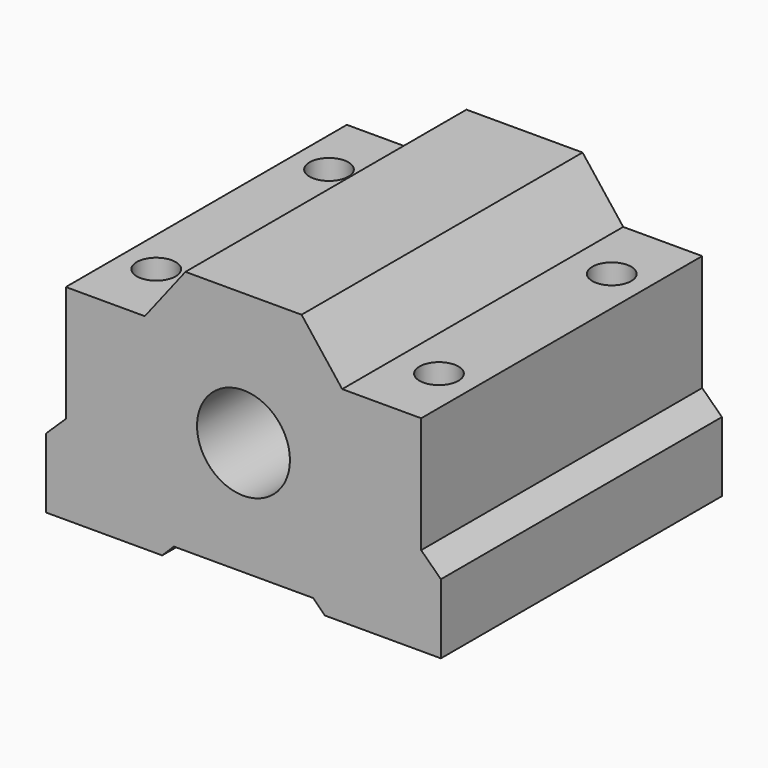
from build123d import *

# Parameters (mm, degrees)
F0_R     = 4
F1_DEPTH = 15.125
F2_R     = 1.675
F3_DEPTH = 22.151


with BuildPart() as f1:
    # F0 (on Front) → F1 (new body, symmetric)
    with BuildSketch(Plane.XZ):
        Polygon((5, 11.35), (-5, 11.35), (-8.5, 6.85), (-15.3, 6.85), (-15.3, -3.15), (-17, -4.8), (-17, -10.8), (-7, -10.8), (-6, -9.8), (6, -9.8), (7, -10.8), (17, -10.8), (17, -4.8), (15.3, -3.15), (15.3, 6.85), (8.5, 6.85), align=None)
        Circle(F0_R, mode=Mode.SUBTRACT)
    extrude(amount=F1_DEPTH, both=True)

    # F2 (on face) → F3 (cut, through all)
    with BuildSketch(Plane(origin=(0, 0, -10.8), x_dir=(1, 0, 0), z_dir=(0, 0, -1))):
        with Locations((-12.175, 9.3)):
            Circle(F2_R)
        with Locations((12.175, 9.3)):
            Circle(F2_R)
        with Locations((-12.175, -9.3)):
            Circle(F2_R)
        with Locations((12.175, -9.3)):
            Circle(F2_R)
    extrude(amount=-F3_DEPTH, mode=Mode.SUBTRACT)


solid = f1.part
